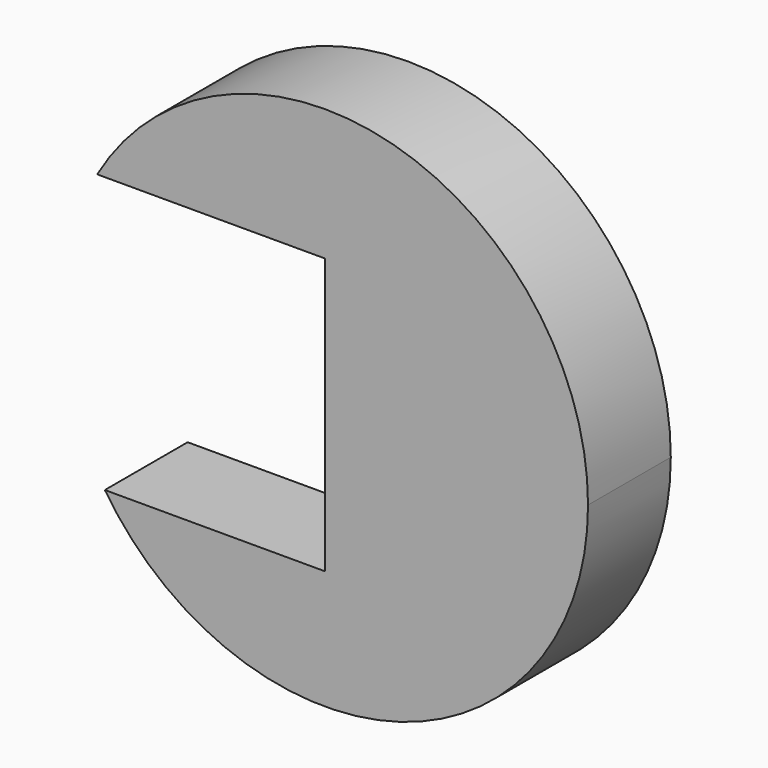
from build123d import *

# Parameters (mm, degrees)
F1_DEPTH = 12.7


with BuildPart() as f1:
    # F0 (on Front) → F1 (new body, symmetric)
    with BuildSketch(Plane.XZ):
        with BuildLine():
            ThreePointArc((-54.047783, -35.329167), (18.431438, -61.883721), (64.570217, 0))
            ThreePointArc((64.570217, 0), (16.705627, 62.371748), (-55.926047, 32.273676))
            Line((-55.926047, 32.273676), (0, 32.273676))
            Line((0, 32.273676), (0, -35.329167))
            Line((0, -35.329167), (-54.047783, -35.329167))
        make_face()
    extrude(amount=F1_DEPTH, both=True)


solid = f1.part
